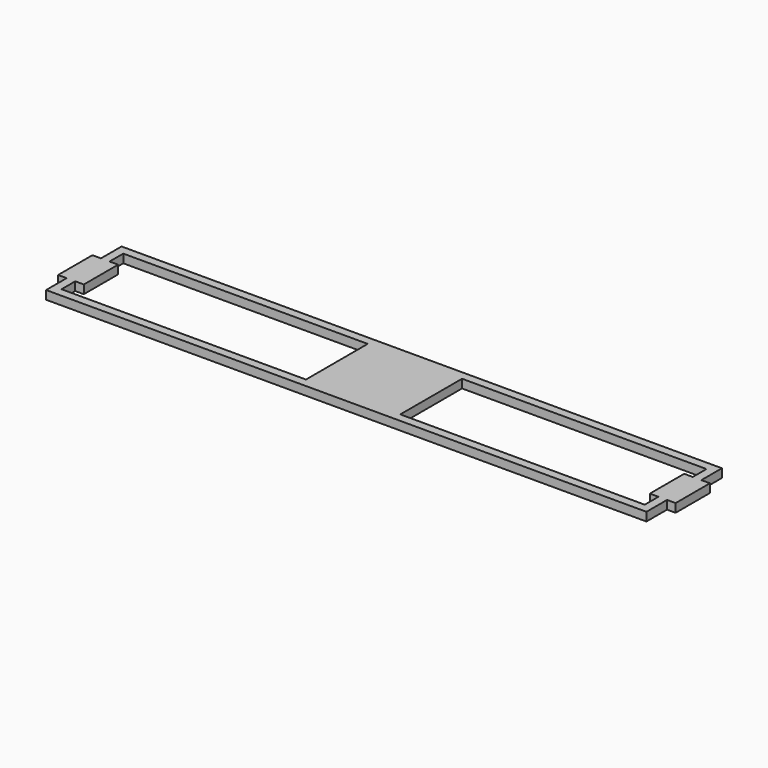
from build123d import *

# Parameters (mm, degrees)
F0_W      = 1778
F0_H      = 279.4
F1_DEPTH  = 25.4
F2_W      = 1727.2
F2_H      = 228.6
F3_DEPTH  = 25.401
F4_W      = 279.4
F4_H      = 279.4
F5_DEPTH  = 25.4
F6_W      = 127
F6_H      = 25.4
F7_DEPTH  = 25.4
F8_W      = 127
F8_H      = 25.4
F9_DEPTH  = 25.4
F10_W     = 127
F10_H     = 25.4
F11_DEPTH = 25.4
F12_W     = 127
F12_H     = 25.4
F13_DEPTH = 25.4


with BuildPart() as f1:
    # F0 (on Top) → F1 (new body)
    with BuildSketch(Plane.XY):
        Rectangle(F0_W, F0_H)
    extrude(amount=F1_DEPTH)

    # F2 (on face) → F3 (cut, through all)
    with BuildSketch(Plane.XY.offset(25.4)):
        Rectangle(F2_W, F2_H)
    extrude(amount=-F3_DEPTH, mode=Mode.SUBTRACT)

    # F4 (on Top) → F5 (join)
    with BuildSketch(Plane.XY):
        Rectangle(F4_W, F4_H)
    extrude(amount=F5_DEPTH)

    # F6 (on face) → F7 (join)
    with BuildSketch(Plane(origin=(-889, 0, 0), x_dir=(0, -1, 0), z_dir=(-1, 0, 0))):
        with Locations((0, 12.7)):
            Rectangle(F6_W, F6_H)
    extrude(amount=F7_DEPTH)

    # F8 (on face) → F9 (join)
    with BuildSketch(Plane(origin=(863.6, 0, 0), x_dir=(0, -1, 0), z_dir=(-1, 0, 0))):
        with Locations((0, 12.7)):
            Rectangle(F8_W, F8_H)
    extrude(amount=F9_DEPTH)

    # F10 (on face) → F11 (join)
    with BuildSketch(Plane.YZ.offset(889)):
        with Locations((0, 12.7)):
            Rectangle(F10_W, F10_H)
    extrude(amount=F11_DEPTH)

    # F12 (on face) → F13 (join)
    with BuildSketch(Plane.YZ.offset(-863.6)):
        with Locations((0, 12.7)):
            Rectangle(F12_W, F12_H)
    extrude(amount=F13_DEPTH)


solid = f1.part
